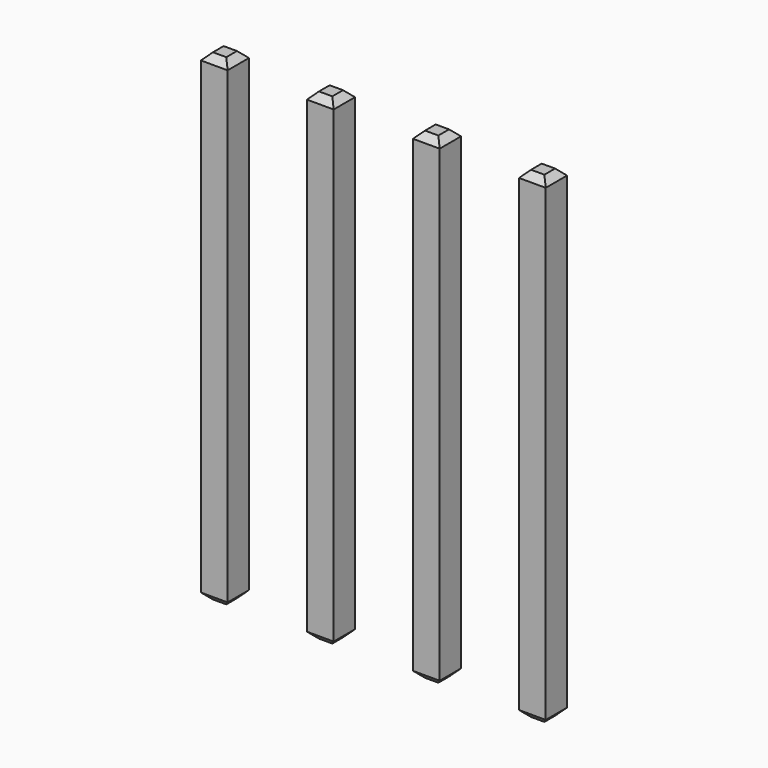
from build123d import *

# Parameters (mm, degrees)
SKETCH218_W       = 0.64
SKETCH218_H       = 11.54
PAD074_DEPTH      = 0.32
PAD074_DEPTH_BACK = 0.32
CHAMFER029_SIZE   = 0.16
ARRAY010_X_COUNT  = 4
ARRAY010_X_PITCH  = 2.54


with BuildPart() as part:
    # Sketch218 → Pad074 (new body, two sides)
    with BuildSketch(Plane.XZ) as pad074_sk:
        with Locations((0, 2.77)):
            Rectangle(SKETCH218_W, SKETCH218_H)
    extrude(amount=PAD074_DEPTH)
    extrude(pad074_sk.sketch, amount=-PAD074_DEPTH_BACK)

    # Chamfer029
    chamfer029_edges = [part.edges().sort_by_distance(p)[0] for p in [
        (0.32, 0, 8.54),
        (-0.32, 0, 8.54),
        (0, 0.32, 8.54),
        (0, -0.32, 8.54),
        (-0.32, 0, -3),
        (0.32, 0, -3),
        (0, 0.32, -3),
        (0, -0.32, -3),
    ]]
    chamfer(chamfer029_edges, length=CHAMFER029_SIZE)

    # Array010 X: part ×4


with BuildPart() as part_1:
    add(part.part)
    with Locations(*[(i * ARRAY010_X_PITCH, 0, 0) for i in range(1, ARRAY010_X_COUNT)]):
        add(part.part)


solid = part_1.part
